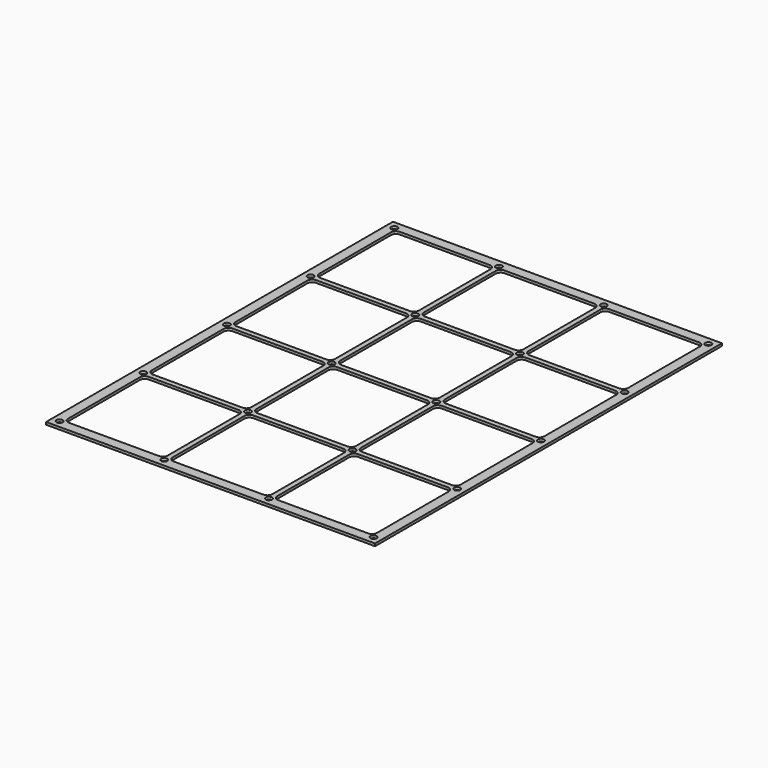
from build123d import *

# Parameters (mm, degrees)
F0_W     = 419.1
F0_H     = 552.45
F0_R     = 3.96875
F1_DEPTH = 3.175


with BuildPart() as f1:
    # F0 (on Top) → F1 (new body)
    with BuildSketch(Plane.XY):
        with Locations((209.55, 276.225)):
            Rectangle(F0_W, F0_H)
        with Locations((9.454559, 9.666916)):
            Circle(F0_R, mode=Mode.SUBTRACT)
        with BuildLine():
            Line((133.35, 12.84139), (19.05, 12.84139))
            ThreePointArc((19.05, 12.84139), (14.559872, 14.701262), (12.7, 19.19139))
            Line((12.7, 19.19139), (12.7, 133.49139))
            ThreePointArc((12.7, 133.49139), (14.559872, 137.981518), (19.05, 139.84139))
            Line((19.05, 139.84139), (133.35, 139.84139))
            ThreePointArc((133.35, 139.84139), (137.840128, 137.981518), (139.7, 133.49139))
            Line((139.7, 133.49139), (139.7, 19.19139))
            ThreePointArc((139.7, 19.19139), (137.840128, 14.701262), (133.35, 12.84139))
        make_face(mode=Mode.SUBTRACT)
        with Locations((142.804305, 9.666916)):
            Circle(F0_R, mode=Mode.SUBTRACT)
        with BuildLine():
            Line((272.979305, 133.420695), (272.979305, 19.120695))
            ThreePointArc((272.979305, 19.120695), (271.119433, 14.630567), (266.629305, 12.770695))
            Line((266.629305, 12.770695), (152.329305, 12.770695))
            ThreePointArc((152.329305, 12.770695), (147.839177, 14.630567), (145.979305, 19.120695))
            Line((145.979305, 19.120695), (145.979305, 133.420695))
            ThreePointArc((145.979305, 133.420695), (147.839177, 137.910823), (152.329305, 139.770695))
            Line((152.329305, 139.770695), (266.629305, 139.770695))
            ThreePointArc((266.629305, 139.770695), (271.119433, 137.910823), (272.979305, 133.420695))
        make_face(mode=Mode.SUBTRACT)
        with Locations((9.454559, 142.945695)):
            Circle(F0_R, mode=Mode.SUBTRACT)
        with Locations((9.454559, 276.224473)):
            Circle(F0_R, mode=Mode.SUBTRACT)
        with BuildLine():
            Line((139.629305, 266.770695), (139.629305, 152.470695))
            ThreePointArc((139.629305, 152.470695), (137.769433, 147.980567), (133.279305, 146.120695))
            Line((133.279305, 146.120695), (18.979305, 146.120695))
            ThreePointArc((18.979305, 146.120695), (14.489177, 147.980567), (12.629305, 152.470695))
            Line((12.629305, 152.470695), (12.629305, 266.770695))
            ThreePointArc((12.629305, 266.770695), (14.489177, 271.260823), (18.979305, 273.120695))
            Line((18.979305, 273.120695), (133.279305, 273.120695))
            ThreePointArc((133.279305, 273.120695), (137.769433, 271.260823), (139.629305, 266.770695))
        make_face(mode=Mode.SUBTRACT)
        with Locations((142.804305, 142.945695)):
            Circle(F0_R, mode=Mode.SUBTRACT)
        with Locations((142.804305, 276.224473)):
            Circle(F0_R, mode=Mode.SUBTRACT)
        with Locations((276.154051, 9.666916)):
            Circle(F0_R, mode=Mode.SUBTRACT)
        with Locations((409.503797, 9.666916)):
            Circle(F0_R, mode=Mode.SUBTRACT)
        with BuildLine():
            Line((406.4, 133.35), (406.4, 19.05))
            ThreePointArc((406.4, 19.05), (404.540128, 14.559872), (400.05, 12.7))
            Line((400.05, 12.7), (285.75, 12.7))
            ThreePointArc((285.75, 12.7), (281.259872, 14.559872), (279.4, 19.05))
            Line((279.4, 19.05), (279.4, 133.35))
            ThreePointArc((279.4, 133.35), (281.259872, 137.840128), (285.75, 139.7))
            Line((285.75, 139.7), (400.05, 139.7))
            ThreePointArc((400.05, 139.7), (404.540128, 137.840128), (406.4, 133.35))
        make_face(mode=Mode.SUBTRACT)
        with Locations((276.154051, 142.945695)):
            Circle(F0_R, mode=Mode.SUBTRACT)
        with BuildLine():
            Line((273.05, 266.84139), (273.05, 152.54139))
            ThreePointArc((273.05, 152.54139), (271.190128, 148.051262), (266.7, 146.19139))
            Line((266.7, 146.19139), (152.4, 146.19139))
            ThreePointArc((152.4, 146.19139), (147.909872, 148.051262), (146.05, 152.54139))
            Line((146.05, 152.54139), (146.05, 266.84139))
            ThreePointArc((146.05, 266.84139), (147.909872, 271.331518), (152.4, 273.19139))
            Line((152.4, 273.19139), (266.7, 273.19139))
            ThreePointArc((266.7, 273.19139), (271.190128, 271.331518), (273.05, 266.84139))
        make_face(mode=Mode.SUBTRACT)
        with Locations((276.154051, 276.224473)):
            Circle(F0_R, mode=Mode.SUBTRACT)
        with Locations((409.503797, 142.945695)):
            Circle(F0_R, mode=Mode.SUBTRACT)
        with BuildLine():
            Line((406.4, 266.7), (406.4, 152.4))
            ThreePointArc((406.4, 152.4), (404.540128, 147.909872), (400.05, 146.05))
            Line((400.05, 146.05), (285.75, 146.05))
            ThreePointArc((285.75, 146.05), (281.259872, 147.909872), (279.4, 152.4))
            Line((279.4, 152.4), (279.4, 266.7))
            ThreePointArc((279.4, 266.7), (281.259872, 271.190128), (285.75, 273.05))
            Line((285.75, 273.05), (400.05, 273.05))
            ThreePointArc((400.05, 273.05), (404.540128, 271.190128), (406.4, 266.7))
        make_face(mode=Mode.SUBTRACT)
        with Locations((409.503797, 276.224473)):
            Circle(F0_R, mode=Mode.SUBTRACT)
        with BuildLine():
            Line((139.7, 400.05), (139.7, 285.75))
            ThreePointArc((139.7, 285.75), (137.840128, 281.259872), (133.35, 279.4))
            Line((133.35, 279.4), (19.05, 279.4))
            ThreePointArc((19.05, 279.4), (14.559872, 281.259872), (12.7, 285.75))
            Line((12.7, 285.75), (12.7, 400.05))
            ThreePointArc((12.7, 400.05), (14.559872, 404.540128), (19.05, 406.4))
            Line((19.05, 406.4), (133.35, 406.4))
            ThreePointArc((133.35, 406.4), (137.840128, 404.540128), (139.7, 400.05))
        make_face(mode=Mode.SUBTRACT)
        with Locations((9.454559, 409.503252)):
            Circle(F0_R, mode=Mode.SUBTRACT)
        with Locations((142.804305, 409.503252)):
            Circle(F0_R, mode=Mode.SUBTRACT)
        with BuildLine():
            Line((139.7, 533.4), (139.7, 419.1))
            ThreePointArc((139.7, 419.1), (137.840128, 414.609872), (133.35, 412.75))
            Line((133.35, 412.75), (19.05, 412.75))
            ThreePointArc((19.05, 412.75), (14.559872, 414.609872), (12.7, 419.1))
            Line((12.7, 419.1), (12.7, 533.4))
            ThreePointArc((12.7, 533.4), (14.559872, 537.890128), (19.05, 539.75))
            Line((19.05, 539.75), (133.35, 539.75))
            ThreePointArc((133.35, 539.75), (137.840128, 537.890128), (139.7, 533.4))
        make_face(mode=Mode.SUBTRACT)
        with Locations((9.454559, 542.78203)):
            Circle(F0_R, mode=Mode.SUBTRACT)
        with Locations((142.804305, 542.78203)):
            Circle(F0_R, mode=Mode.SUBTRACT)
        with BuildLine():
            Line((273.050001, 400.05), (273.050001, 285.75))
            ThreePointArc((273.050001, 285.75), (271.190129, 281.259872), (266.700001, 279.4))
            Line((266.700001, 279.4), (152.400001, 279.4))
            ThreePointArc((152.400001, 279.4), (147.909873, 281.259872), (146.050001, 285.75))
            Line((146.050001, 285.75), (146.050001, 400.05))
            ThreePointArc((146.050001, 400.05), (147.909873, 404.540128), (152.400001, 406.4))
            Line((152.400001, 406.4), (266.700001, 406.4))
            ThreePointArc((266.700001, 406.4), (271.190129, 404.540128), (273.050001, 400.05))
        make_face(mode=Mode.SUBTRACT)
        with Locations((276.154051, 409.503252)):
            Circle(F0_R, mode=Mode.SUBTRACT)
        with BuildLine():
            Line((406.4, 400.05), (406.4, 285.75))
            ThreePointArc((406.4, 285.75), (404.540128, 281.259872), (400.05, 279.4))
            Line((400.05, 279.4), (285.75, 279.4))
            ThreePointArc((285.75, 279.4), (281.259872, 281.259872), (279.4, 285.75))
            Line((279.4, 285.75), (279.4, 400.05))
            ThreePointArc((279.4, 400.05), (281.259872, 404.540128), (285.75, 406.4))
            Line((285.75, 406.4), (400.05, 406.4))
            ThreePointArc((400.05, 406.4), (404.540128, 404.540128), (406.4, 400.05))
        make_face(mode=Mode.SUBTRACT)
        with Locations((409.503797, 409.503252)):
            Circle(F0_R, mode=Mode.SUBTRACT)
        with BuildLine():
            Line((273.05, 533.4), (273.05, 419.1))
            ThreePointArc((273.05, 419.1), (271.190128, 414.609872), (266.7, 412.75))
            Line((266.7, 412.75), (152.4, 412.75))
            ThreePointArc((152.4, 412.75), (147.909872, 414.609872), (146.05, 419.1))
            Line((146.05, 419.1), (146.05, 533.4))
            ThreePointArc((146.05, 533.4), (147.909872, 537.890128), (152.4, 539.75))
            Line((152.4, 539.75), (266.7, 539.75))
            ThreePointArc((266.7, 539.75), (271.190128, 537.890128), (273.05, 533.4))
        make_face(mode=Mode.SUBTRACT)
        with Locations((276.154051, 542.78203)):
            Circle(F0_R, mode=Mode.SUBTRACT)
        with BuildLine():
            Line((406.4, 533.4), (406.4, 419.1))
            ThreePointArc((406.4, 419.1), (404.540128, 414.609872), (400.05, 412.75))
            Line((400.05, 412.75), (285.75, 412.75))
            ThreePointArc((285.75, 412.75), (281.259872, 414.609872), (279.4, 419.1))
            Line((279.4, 419.1), (279.4, 533.4))
            ThreePointArc((279.4, 533.4), (281.259872, 537.890128), (285.75, 539.75))
            Line((285.75, 539.75), (400.05, 539.75))
            ThreePointArc((400.05, 539.75), (404.540128, 537.890128), (406.4, 533.4))
        make_face(mode=Mode.SUBTRACT)
        with Locations((409.503797, 542.78203)):
            Circle(F0_R, mode=Mode.SUBTRACT)
    extrude(amount=F1_DEPTH)


solid = f1.part
